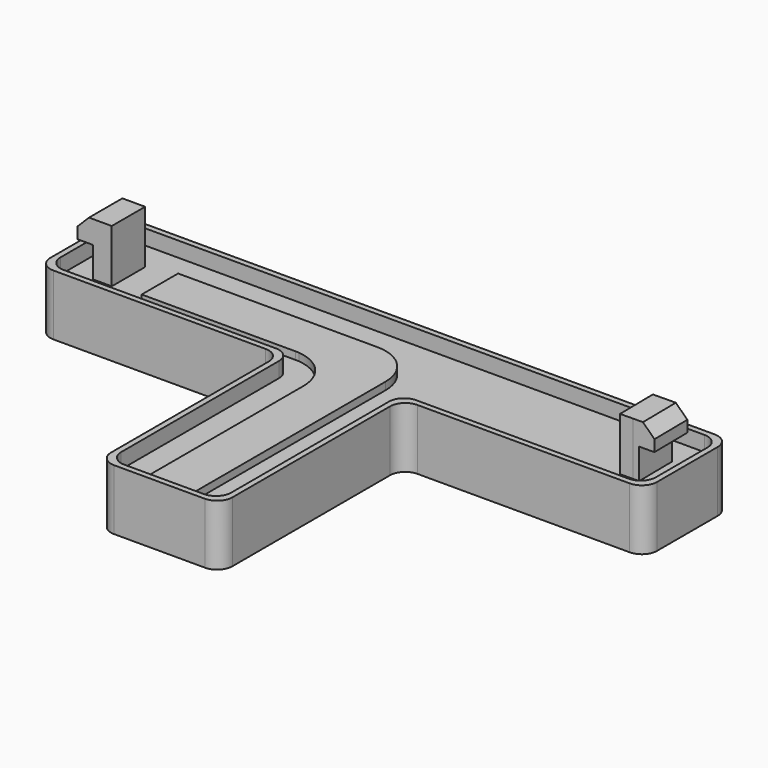
from build123d import *

# Parameters (mm, degrees)
F1_DEPTH  = 6
F3_DEPTH  = 1
F5_DEPTH  = 7
F7_DEPTH  = 2
F8_W      = 2
F8_H      = 4
F9_DEPTH  = 6
F10_W     = 2
F10_H     = 4
F11_DEPTH = 6


with BuildPart() as f1:
    # F0 (on Top) → F1 (new body)
    with BuildSketch(Plane.XY):
        with BuildLine():
            Line((-35, 0), (-12, 0))
            Line((-12, 0), (-10, 0))
            ThreePointArc((-10, 0), (-8.5857864376, -0.5857864376), (-8, -2))
            Line((-8, -2), (-8, -28))
            ThreePointArc((-8, -28), (-7.4142135624, -29.4142135624), (-6, -30))
            Line((-6, -30), (0, -30))
            Line((0, -30), (6, -30))
            ThreePointArc((6, -30), (7.4142135624, -29.4142135624), (8, -28))
            Line((8, -28), (8, -2))
            ThreePointArc((8, -2), (8.5857864376, -0.5857864376), (10, 0))
            Line((10, 0), (35, 0))
            ThreePointArc((35, 0), (36.4142135624, 0.5857864376), (37, 2))
            Line((37, 2), (37, 12))
            ThreePointArc((37, 12), (36.4142135624, 13.4142135624), (35, 14))
            Line((35, 14), (-35, 14))
            ThreePointArc((-35, 14), (-36.4142135624, 13.4142135624), (-37, 12))
            Line((-37, 12), (-37, 2))
            ThreePointArc((-37, 2), (-36.4142135624, 0.5857864376), (-35, 0))
        make_face()
        with BuildLine():
            Line((-38, 0), (-35, 0))
            ThreePointArc((-35, 0), (-36.4142135624, 0.5857864376), (-37, 2))
            Line((-37, 2), (-37, 12))
            ThreePointArc((-37, 12), (-36.4142135624, 13.4142135624), (-35, 14))
            Line((-35, 14), (-38, 14))
            ThreePointArc((-38, 14), (-39.4142135624, 13.4142135624), (-40, 12))
            Line((-40, 12), (-40, 2))
            ThreePointArc((-40, 2), (-39.4142135624, 0.5857864376), (-38, 0))
        make_face()
        with BuildLine():
            Line((38, 14), (35, 14))
            ThreePointArc((35, 14), (36.4142135624, 13.4142135624), (37, 12))
            Line((37, 12), (37, 2))
            ThreePointArc((37, 2), (36.4142135624, 0.5857864376), (35, 0))
            Line((35, 0), (37, 0))
            Line((37, 0), (38, 0))
            ThreePointArc((38, 0), (39.4142135624, 0.5857864376), (40, 2))
            Line((40, 2), (40, 12))
            ThreePointArc((40, 12), (39.4142135624, 13.4142135624), (38, 14))
        make_face()
    extrude(amount=F1_DEPTH)

    # F2 (on face) → F3 (join)
    with BuildSketch(Plane.XY.offset(6)):
        with BuildLine():
            Line((-3, -2.5), (-3, -30))
            Line((-3, -30), (3, -30))
            Line((3, -30), (3, 3.5))
            ThreePointArc((3, 3.5), (1.3890872965, 7.3890872965), (-2.5, 9))
            Line((-2.5, 9), (-28.75, 9))
            Line((-28.75, 9), (-28.75, 3))
            Line((-28.75, 3), (-8.5, 3))
            ThreePointArc((-8.5, 3), (-8.2371364782, 2.9937148423), (-7.9748737342, 2.9748737342))
            ThreePointArc((-7.9748737342, 2.9748737342), (-4.4294844023, 1.1987704401), (-3, -2.5))
        make_face()
    extrude(amount=F3_DEPTH)

    # F4 (on face) → F5 (join)
    with BuildSketch(Plane.XY.offset(6)):
        Polygon((35.2363081181, 4), (38.0360990062, 4.034219625), (37.9688818856, 9.5338088696), (35.1690909975, 9.4995892445), (33.4692179582, 9.4788130436), (33.5364350788, 3.9792237991), align=None)
        Polygon((-38, 9.5), (-38, 4), (-35.2, 4), (-33.5, 4), (-33.5, 9.5), align=None)
    extrude(amount=F5_DEPTH)

    # F6 (on face) → F7 (join)
    with BuildSketch(Plane.XY.offset(6)):
        with BuildLine():
            Line((-6, -30), (0, -30))
            Line((0, -30), (6, -30))
            ThreePointArc((6, -30), (7.4142135624, -29.4142135624), (8, -28))
            Line((8, -28), (8, -2))
            ThreePointArc((8, -2), (8.5857864376, -0.5857864376), (10, 0))
            Line((10, 0), (38, 0))
            ThreePointArc((38, 0), (39.4142135624, 0.5857864376), (40, 2))
            Line((40, 2), (40, 12))
            ThreePointArc((40, 12), (39.4142135624, 13.4142135624), (38, 14))
            Line((38, 14), (-38, 14))
            ThreePointArc((-38, 14), (-39.4142135624, 13.4142135624), (-40, 12))
            Line((-40, 12), (-40, 2))
            ThreePointArc((-40, 2), (-39.4142135624, 0.5857864376), (-38, 0))
            Line((-38, 0), (-10, 0))
            ThreePointArc((-10, 0), (-8.5857864376, -0.5857864376), (-8, -2))
            Line((-8, -2), (-8, -28))
            ThreePointArc((-8, -28), (-7.4142135624, -29.4142135624), (-6, -30))
        make_face()
        with BuildLine():
            Line((5.25, -29.25), (0, -29.25))
            Line((0, -29.25), (-5.25, -29.25))
            ThreePointArc((-5.25, -29.25), (-6.6642135624, -28.6642135624), (-7.25, -27.25))
            Line((-7.25, -27.25), (-7.25, -16.2867717445))
            Line((-7.25, -16.2867717445), (-7.25, -1.25))
            ThreePointArc((-7.25, -1.25), (-7.8357864376, 0.1642135624), (-9.25, 0.75))
            Line((-9.25, 0.75), (-28.4743793309, 0.75))
            Line((-28.4743793309, 0.75), (-37.25, 0.75))
            ThreePointArc((-37.25, 0.75), (-38.6642135624, 1.3357864376), (-39.25, 2.75))
            Line((-39.25, 2.75), (-39.25, 11.25))
            ThreePointArc((-39.25, 11.25), (-38.6642135624, 12.6642135624), (-37.25, 13.25))
            Line((-37.25, 13.25), (23.7047821283, 13.25))
            Line((23.7047821283, 13.25), (37.25, 13.25))
            ThreePointArc((37.25, 13.25), (38.6642135624, 12.6642135624), (39.25, 11.25))
            Line((39.25, 11.25), (39.25, 2.75))
            ThreePointArc((39.25, 2.75), (38.6642135624, 1.3357864376), (37.25, 0.75))
            Line((37.25, 0.75), (9.25, 0.75))
            ThreePointArc((9.25, 0.75), (8.3839745962, 0.5527756377), (7.6887505004, 0))
            ThreePointArc((7.6887505004, 0), (7.3628726859, -0.5876175573), (7.25, -1.25))
            Line((7.25, -1.25), (7.25, -27.25))
            ThreePointArc((7.25, -27.25), (6.6642135624, -28.6642135624), (5.25, -29.25))
        make_face(mode=Mode.SUBTRACT)
    extrude(amount=F7_DEPTH)

    # F8 (on face) → F9 (cut)
    with BuildSketch(Plane(origin=(-0.0436186312, 3.5688014166, 0), x_dir=(0.9999253172, 0.0122212947, 0), z_dir=(0.0122212947, -0.9999253172, 0))):
        Polygon((38.0825617502, 13), (36.5825617502, 13), (38.0825617502, 11.5), align=None)
        with Locations((37.0825617502, 8)):
            Rectangle(F8_W, F8_H)
    extrude(amount=-F9_DEPTH, mode=Mode.SUBTRACT)

    # F10 (on face) → F11 (cut)
    with BuildSketch(Plane.XZ.offset(-4)):
        with Locations((-37, 8)):
            Rectangle(F10_W, F10_H)
        Polygon((-38, 11.5), (-36.5, 13), (-38, 13), align=None)
    extrude(amount=-F11_DEPTH, mode=Mode.SUBTRACT)


solid = f1.part
